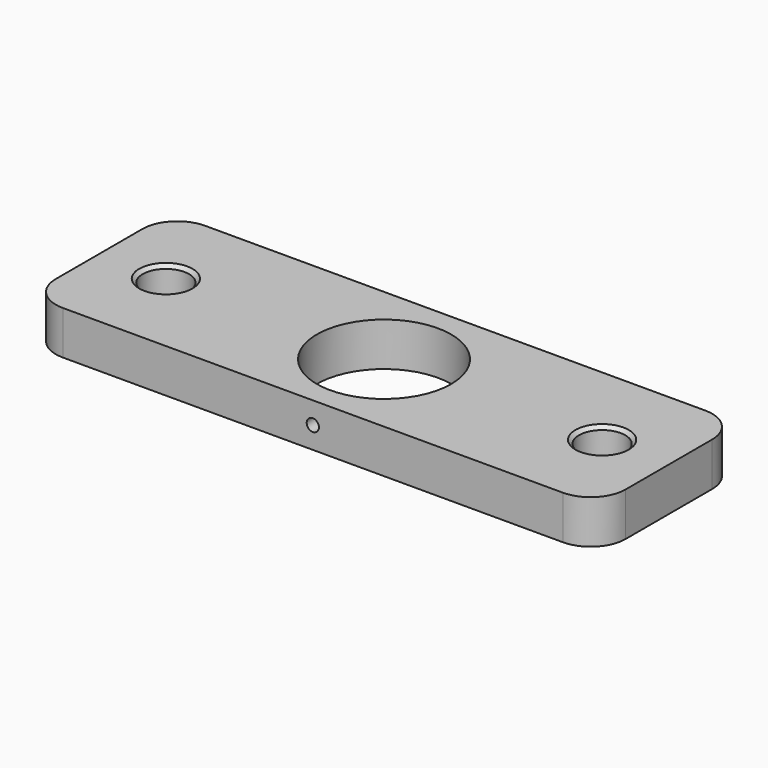
from build123d import *

# Parameters (mm, degrees)
F0_W     = 82.946875
F0_H     = 25.908
F0_R     = 3.3734375
F0_R_2   = 9.779
F1_DEPTH = 6.35
F2_R     = 0.889
F3_DEPTH = 3.2164930276
F4_R     = 5.08
F5_SIZE  = 0.508


with BuildPart() as f1:
    # F0 (on Top) → F1 (new body)
    with BuildSketch(Plane.XY):
        Rectangle(F0_W, F0_H)
        with Locations((-31.75, 0)):
            Circle(F0_R, mode=Mode.SUBTRACT)
        Circle(F0_R_2, mode=Mode.SUBTRACT)
        with Locations((31.75, 0)):
            Circle(F0_R, mode=Mode.SUBTRACT)
    extrude(amount=F1_DEPTH)

    # F2 (on face) → F3 (cut, through all)
    with BuildSketch(Plane.XZ.offset(12.954)):
        with Locations((0, 3.175)):
            Circle(F2_R)
    extrude(amount=-F3_DEPTH, mode=Mode.SUBTRACT)

    # F4
    f4_edges = [f1.edges().sort_by_distance(p)[0] for p in [
        (-41.473438, -12.954, 3.175),
        (41.473438, -12.954, 3.175),
        (41.473438, 12.954, 3.175),
        (-41.473438, 12.954, 3.175),
    ]]
    fillet(f4_edges, radius=F4_R)

    # F5
    f5_edges = [f1.edges().sort_by_distance(p)[0] for p in [
        (-35.123438, 0, 6.35),
        (28.376562, 0, 6.35),
        (-35.123438, 0, 0),
        (28.376562, 0, 0),
    ]]
    chamfer(f5_edges, length=F5_SIZE)


solid = f1.part
